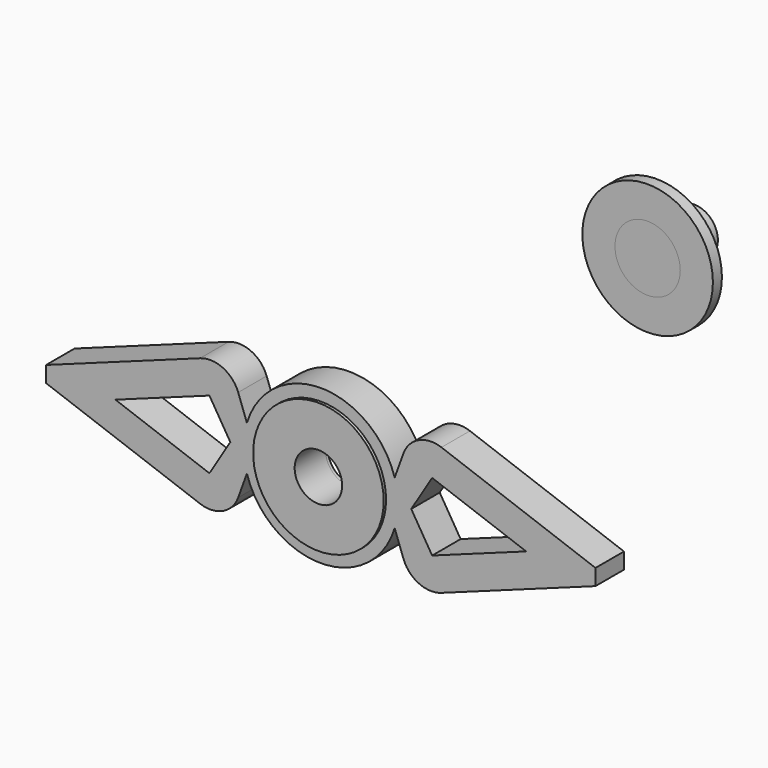
from build123d import *

# Parameters (mm, degrees)
F0_R       = 11
F1_DEPTH   = 6
F2_R       = 5
F5_DEPTH   = 25
F0_R_2     = 9.5
F0_R_3     = 5.1
F0_R_4     = 4
F7_R       = 5.1
F7_R_2     = 4
F8_DEPTH   = 6.5
F9_DEPTH   = 0.5
F6_R       = 4
F11_DEPTH  = 4.9
F11_FACE_R = 4
F12_DEPTH  = 4.9
F10_R      = 5.5
F13_DEPTH  = 2.9
F10_R_2    = 11
F14_DEPTH  = 1.9


with BuildPart() as f1:
    # F0 (on Front) → F1 (new body)
    with BuildSketch(Plane.XZ):
        with BuildLine():
            ThreePointArc((12.447389, 3.75), (12.861105, 1.895249), (13, 0))
            ThreePointArc((13, 0), (12.861105, -1.895249), (12.447389, -3.75))
            Line((12.447389, -3.75), (15.629637, -12.5))
            Line((15.629637, -12.5), (46.286209, -1.350651))
            Line((46.286209, -1.350651), (46.286209, 1.350651))
            Line((46.286209, 1.350651), (15.629637, 12.5))
            Line((15.629637, 12.5), (12.447389, 3.75))
        make_face()
        with BuildLine():
            ThreePointArc((12.447389, -3.75), (12.861105, -1.895249), (13, 0))
            ThreePointArc((13, 0), (12.861105, 1.895249), (12.447389, 3.75))
            ThreePointArc((12.447389, 3.75), (0, 13), (-12.447389, 3.75))
            ThreePointArc((-12.447389, 3.75), (-13, 0), (-12.447389, -3.75))
            ThreePointArc((-12.447389, -3.75), (0, -13), (12.447389, -3.75))
        make_face()
        Circle(F0_R, mode=Mode.SUBTRACT)
        with BuildLine():
            ThreePointArc((-12.447389, -3.75), (-13, 0), (-12.447389, 3.75))
            Line((-12.447389, 3.75), (-15.629637, 12.5))
            Line((-15.629637, 12.5), (-46.286209, 1.350651))
            Line((-46.286209, 1.350651), (-46.286209, -1.350651))
            Line((-46.286209, -1.350651), (-15.629637, -12.5))
            Line((-15.629637, -12.5), (-12.447389, -3.75))
        make_face()
    extrude(amount=F1_DEPTH)

    # F2
    f2_edges = [f1.edges().sort_by_distance(p)[0] for p in [
        (15.629637, -3, 12.5),
        (15.629637, -3, -12.5),
        (-15.629637, -3, -12.5),
        (-15.629637, -3, 12.5),
    ]]
    fillet(f2_edges, radius=F2_R)

    # F3 (on face) + F4 (on face) → F5 (cut)
    with BuildSketch(Plane.XZ.offset(6)):
        Polygon((34.603786, 0), (18.765277, 5.760235), (15.240615, 0), (18.765277, -5.760235), align=None)
    with BuildSketch(Plane.XZ.offset(6)):
        Polygon((-18.765277, -5.760235), (-15.240615, 0), (-18.765277, 5.760235), (-34.603786, 0), align=None)
    extrude(amount=-F5_DEPTH, mode=Mode.SUBTRACT)

    # F0 (on Front) + F7 (on Front) → F8 (join)
    with BuildSketch(Plane.XZ):
        Circle(F0_R)
        Circle(F0_R_2, mode=Mode.SUBTRACT)
        Circle(F0_R_2)
        Circle(F0_R_3, mode=Mode.SUBTRACT)
        Circle(F0_R_3)
        Circle(F0_R_4, mode=Mode.SUBTRACT)
    with BuildSketch(Plane.XZ):
        Circle(F7_R)
        Circle(F7_R_2, mode=Mode.SUBTRACT)
    extrude(amount=F8_DEPTH)

    # F0 (on Front) → F9 (join)
    with BuildSketch(Plane.XZ):
        Circle(F0_R)
        Circle(F0_R_2, mode=Mode.SUBTRACT)
        Circle(F0_R_2)
        Circle(F0_R_3, mode=Mode.SUBTRACT)
        Circle(F0_R_3)
        Circle(F0_R_4, mode=Mode.SUBTRACT)
    extrude(amount=-F9_DEPTH)


with BuildPart() as f11:
    # F6 (on Front) → F11 (new body)
    with BuildSketch(Plane.XZ):
        with Locations((50.269235, 46.13803)):
            Circle(F6_R)
    extrude(amount=-F11_DEPTH)

    # F10 (on Front) → F13 (join)
    with BuildSketch(Plane.XZ):
        with Locations((50.269235, 46.13803)):
            Circle(F10_R)
    extrude(amount=-F13_DEPTH)


with BuildPart() as f12:
    # F11_face (on face) → F12 (new body)
    with BuildSketch(Plane(origin=(50.269235, 4.9, 46.13803), x_dir=(1, 0, 0), z_dir=(0, 1, 0))):
        Circle(F11_FACE_R)
    extrude(amount=F12_DEPTH)


with BuildPart() as f14:
    # F10 (on Front) → F14 (new body)
    with BuildSketch(Plane.XZ):
        with Locations((50.269235, 46.13803)):
            Circle(F10_R_2)
        with Locations((50.269235, 46.13803)):
            Circle(F10_R, mode=Mode.SUBTRACT)
    extrude(amount=-F14_DEPTH)


solid = Compound([f1.part, f11.part, f12.part, f14.part])
